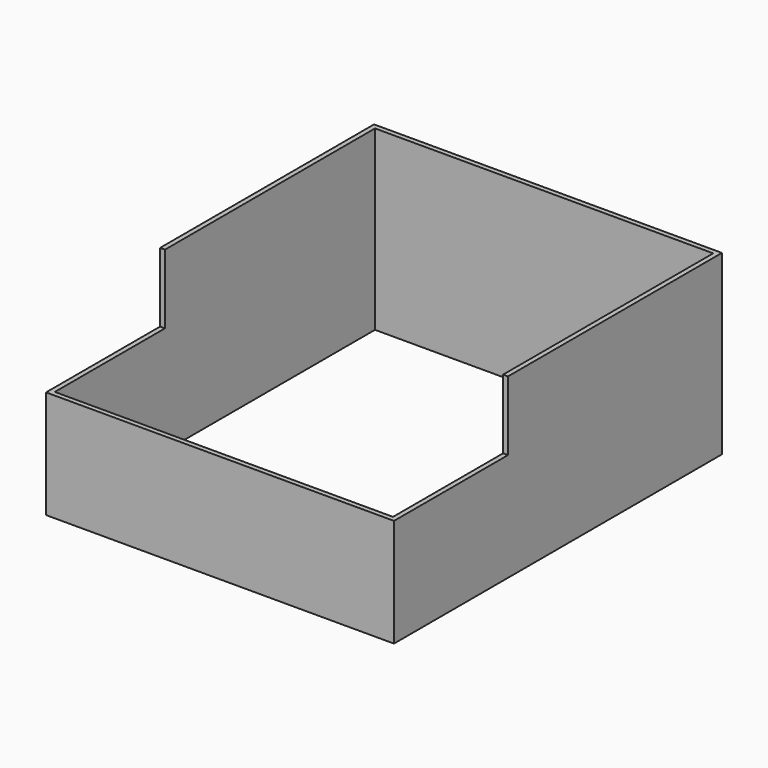
from build123d import *

# Parameters (mm, degrees)
F0_W     = 71.8
F0_H     = 84.6
F2_DEPTH = 36.6
F3_DEPTH = 2
F1_W     = 69.8
F1_H     = 82.6
F4_DEPTH = 36.6
F5_W     = 29.4
F5_H     = 14.3
F6_DEPTH = 71.8


with BuildPart() as f2:
    # F0 (on Top) → F2 (new body)
    with BuildSketch(Plane.XY):
        Rectangle(F0_W, F0_H)
    extrude(amount=F2_DEPTH)

    # F0 (on Top) → F3 (join)
    with BuildSketch(Plane.XY):
        Rectangle(F0_W, F0_H)
    extrude(amount=F3_DEPTH)

    # F1 (on face) → F4 (cut)
    with BuildSketch(Plane.XY):
        Rectangle(F1_W, F1_H)
    extrude(amount=F4_DEPTH, mode=Mode.SUBTRACT)

    # F5 (on face) → F6 (cut)
    with BuildSketch(Plane.YZ.offset(35.9)):
        with Locations((-27.6, 29.45)):
            Rectangle(F5_W, F5_H)
    extrude(amount=-F6_DEPTH, mode=Mode.SUBTRACT)


solid = f2.part
